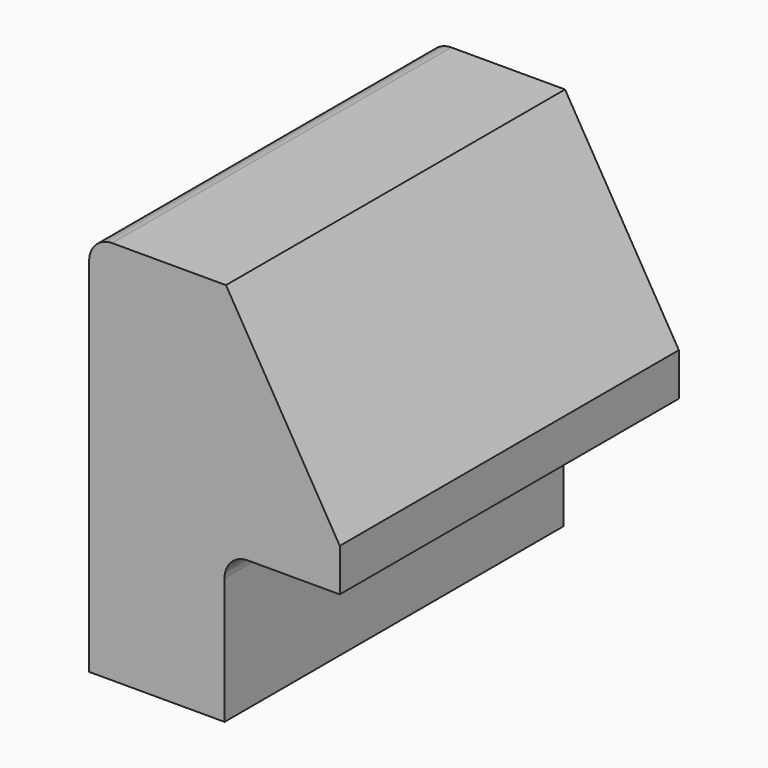
from build123d import *

# Parameters (mm, degrees)
F1_DEPTH = 184
F2_W     = 50
F2_H     = 65
F3_DEPTH = 321
F4_R     = 10


with BuildPart() as f1:
    # F0 (on Front) → F1 (new body)
    with BuildSketch(Plane.XZ):
        with BuildLine():
            Line((0, 157.123631), (0, 0))
            Line((0, 0), (108.799577, 0))
            Line((108.799577, 0), (108.799577, 83.561815))
            Line((108.799577, 83.561815), (59.399788, 167.123631))
            Line((59.399788, 167.123631), (10, 167.123631))
            ThreePointArc((10, 167.123631), (2.928932, 164.194698), (0, 157.123631))
        make_face()
    extrude(amount=F1_DEPTH)

    # F2 (on face) → F3 (cut)
    with BuildSketch(Plane.XZ.offset(184)):
        with Locations((83.799577, 32.5)):
            Rectangle(F2_W, F2_H)
    extrude(amount=-F3_DEPTH, mode=Mode.SUBTRACT)

    # F4
    f4_edges = [f1.edges().sort_by_distance(p)[0] for p in [
        (58.799577, -92, 65),
    ]]
    fillet(f4_edges, radius=F4_R)


solid = f1.part
